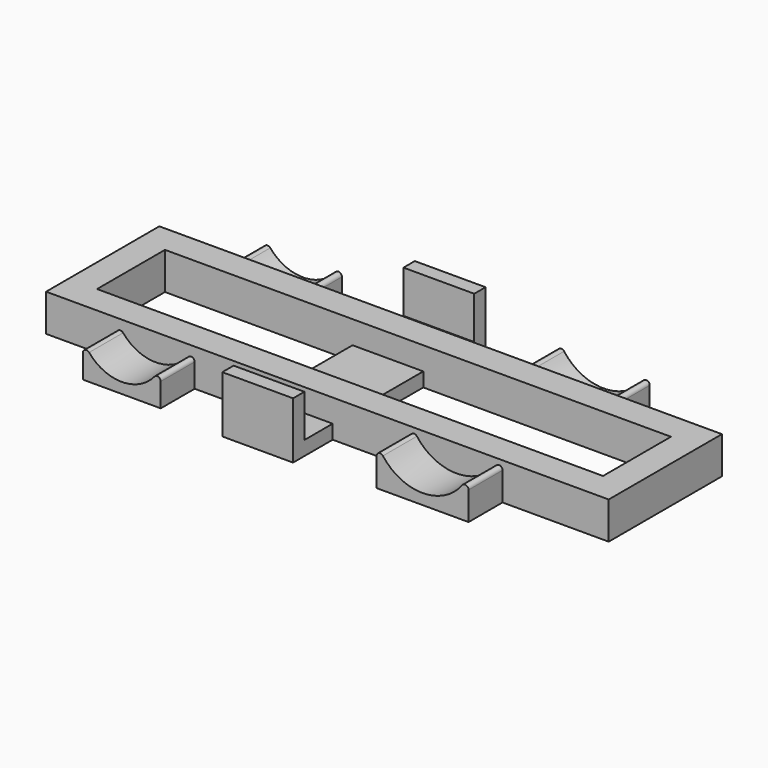
from build123d import *

# Parameters (mm, degrees)
BOX017_W          = 71.5
BOX017_H          = 12
BOX017_DEPTH      = 5.75
BOX008_W          = 79.5
BOX008_H          = 20
BOX008_DEPTH      = 5.25
BOX016_W          = 54.5
BOX016_H          = 20
BOX016_DEPTH      = 10
CYLINDER001_R     = 7
CYLINDER001_DEPTH = 32
BOX015_W          = 13
BOX015_H          = 32
BOX015_DEPTH      = 8
CYLINDER_R        = 6
CYLINDER_DEPTH    = 32
BOX_W             = 11
BOX_H             = 32
BOX_DEPTH         = 8
FILLET_R          = 0.5
BOX019_W          = 10
BOX019_H          = 30
BOX019_DEPTH      = 8
BOX018_W          = 10
BOX018_H          = 34
BOX018_DEPTH      = 8


with BuildPart() as basecutout001:
    # Box017 → Box017 (new body)
    with BuildSketch(Plane(origin=(-11.5, 10, 0), x_dir=(1, 0, 0), z_dir=(0, 0, 1))):
        with Locations((35.75, 6)):
            Rectangle(BOX017_W, BOX017_H)
    extrude(amount=BOX017_DEPTH)


with BuildPart() as cut006:
    # Box008 → Box008 (new body)
    with BuildSketch(Plane(origin=(-15.5, 6, 0), x_dir=(1, 0, 0), z_dir=(0, 0, 1))):
        with Locations((39.75, 10)):
            Rectangle(BOX008_W, BOX008_H)
    extrude(amount=BOX008_DEPTH)

    # Cut006: cut basecutout001
    add(basecutout001.part, mode=Mode.SUBTRACT)


with BuildPart() as basecutout:
    # Box016 → Box016 (new body)
    with BuildSketch(Plane(origin=(-5.5, 6, 0), x_dir=(1, 0, 0), z_dir=(0, 0, 1))):
        with Locations((27.25, 10)):
            Rectangle(BOX016_W, BOX016_H)
    extrude(amount=BOX016_DEPTH)


with BuildPart() as cylinder001:
    # Cylinder001 → Cylinder001 (new body)
    with BuildSketch(Plane(origin=(42.5, 0, 8.5), x_dir=(1, 0, 0), z_dir=(0, 1, 0))):
        Circle(CYLINDER001_R)
    extrude(amount=CYLINDER001_DEPTH)


with BuildPart() as rearaxle:
    # Box015 → Box015 (new body)
    with BuildSketch(Plane(origin=(36, 0, 0), x_dir=(1, 0, 0), z_dir=(0, 0, 1))):
        with Locations((6.5, 16)):
            Rectangle(BOX015_W, BOX015_H)
    extrude(amount=BOX015_DEPTH)

    # Cut004: cut Cylinder001
    add(cylinder001.part, mode=Mode.SUBTRACT)


with BuildPart() as cylinder:
    # Cylinder → Cylinder (new body)
    with BuildSketch(Plane(origin=(0, 0, 7.5), x_dir=(1, 0, 0), z_dir=(0, 1, 0))):
        Circle(CYLINDER_R)
    extrude(amount=CYLINDER_DEPTH)


with BuildPart() as fillet_body:
    # Box → Box (new body)
    with BuildSketch(Plane(origin=(-5.5, 0, 0), x_dir=(1, 0, 0), z_dir=(0, 0, 1))):
        with Locations((5.5, 16)):
            Rectangle(BOX_W, BOX_H)
    extrude(amount=BOX_DEPTH)

    # Cut: cut Cylinder
    add(cylinder.part, mode=Mode.SUBTRACT)

    # Fusion: union RearAxle
    add(rearaxle.part)

    # Cut005: cut basecutout
    add(basecutout.part, mode=Mode.SUBTRACT)

    # Fillet
    fillet_edges = [fillet_body.edges().sort_by_distance(p)[0] for p in [
        (-5.5, 3, 5.102084),
        (5.5, 3, 5.102084),
        (-5.5, 29, 5.102084),
        (5.5, 29, 5.102084),
        (36, 3, 5.901924),
        (49, 3, 5.901924),
        (36, 29, 5.901924),
        (49, 29, 5.901924),
    ]]
    fillet(fillet_edges, radius=FILLET_R)


with BuildPart() as cube017:
    # Box019 → Box019 (new body)
    with BuildSketch(Plane(origin=(15, 1, 2), x_dir=(1, 0, 0), z_dir=(0, 0, 1))):
        with Locations((5, 15)):
            Rectangle(BOX019_W, BOX019_H)
    extrude(amount=BOX019_DEPTH)


with BuildPart() as cut007:
    # Box018 → Box018 (new body)
    with BuildSketch(Plane(origin=(15, -1, 0), x_dir=(1, 0, 0), z_dir=(0, 0, 1))):
        with Locations((5, 17)):
            Rectangle(BOX018_W, BOX018_H)
    extrude(amount=BOX018_DEPTH)

    # Cut007: cut Cube017
    add(cube017.part, mode=Mode.SUBTRACT)


solid = Compound([cut006.part, fillet_body.part, cut007.part])
